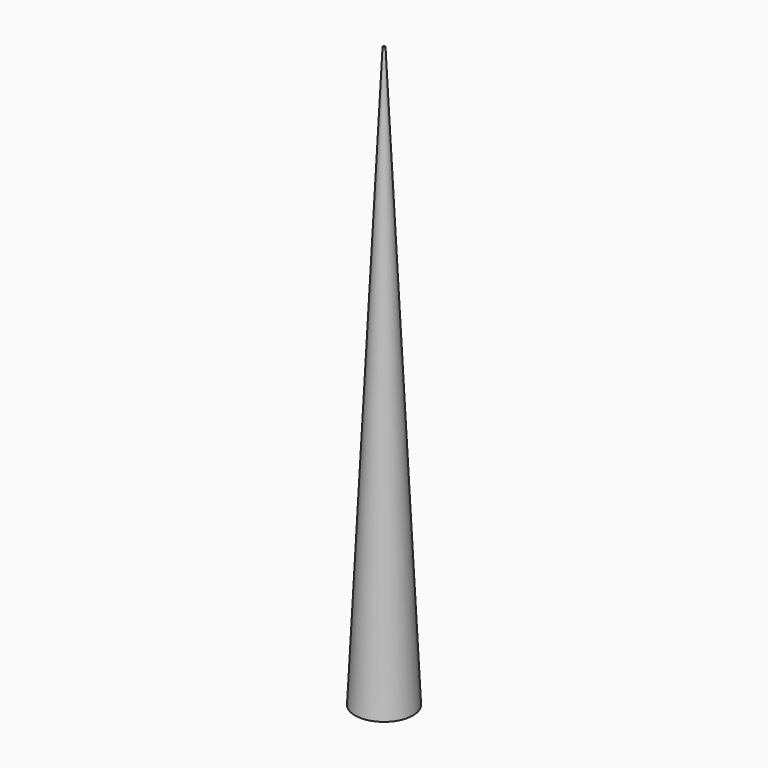
from build123d import *

# Parameters (mm, degrees)
F0_R     = 6.35
F1_DEPTH = 127


with BuildPart() as f1:
    # F0 (on Top) → F1 (new body)
    with BuildSketch(Plane.XY):
        Circle(F0_R)
    extrude(amount=F1_DEPTH)

    # F2 (on Front) → F3 (revolve, cut)
    with BuildSketch(Plane.XZ):
        Polygon((0.254, 127), (6.35, 0), (6.35, 127), align=None)
    revolve(axis=Axis((0, 0, 63.5), (0, 0, 1)), mode=Mode.SUBTRACT)


solid = f1.part
